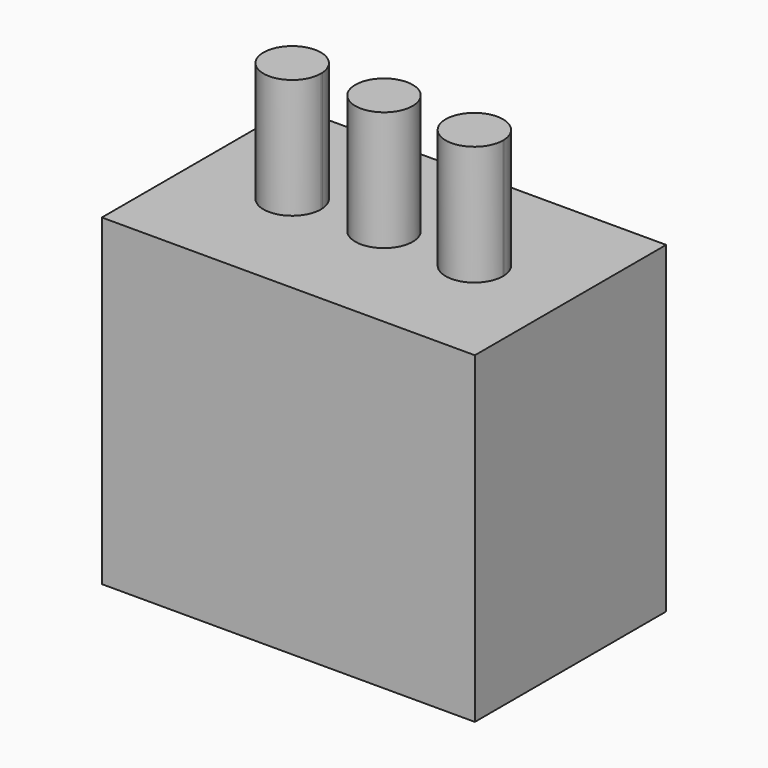
from build123d import *

# Parameters (mm, degrees)
F0_W     = 78
F0_H     = 50
F1_DEPTH = 7.5
F3_DEPTH = 25
F4_W     = 78
F4_H     = 50
F4_W_2   = 70.5
F4_H_2   = 42.5
F5_DEPTH = 60


with BuildPart() as f1:
    # F0 (on Top) → F1 (new body)
    with BuildSketch(Plane.XY):
        Rectangle(F0_W, F0_H)
    extrude(amount=F1_DEPTH)

    # F2 (on face) → F3 (join)
    with BuildSketch(Plane.XY.offset(7.5)):
        with BuildLine():
            Line((-24.8326521918, 0), (-12.8640334502, 0))
            ThreePointArc((-12.8640334502, 0), (-18.848342821, 5.5663626469), (-24.8326521918, 0))
        make_face()
        with BuildLine():
            ThreePointArc((-12.848342821, -0.4336373531), (-12.8522667614, -0.2166767865), (-12.8640334502, 0))
            Line((-12.8640334502, 0), (-24.8326521918, 0))
            ThreePointArc((-24.8326521918, 0), (-19.0653033876, -6.4297134127), (-12.848342821, -0.4336373531))
        make_face()
        with BuildLine():
            Line((-6, 0), (0, 0))
            Line((0, 0), (6, 0))
            ThreePointArc((6, 0), (0, 6), (-6, 0))
        make_face()
        with BuildLine():
            Line((6, 0), (0, 0))
            Line((0, 0), (-6, 0))
            ThreePointArc((-6, 0), (0, -6), (6, 0))
        make_face()
        with BuildLine():
            ThreePointArc((25.1258996345, 0), (19.1332791001, 5.7025119665), (13.1406585656, 0))
            Line((13.1406585656, 0), (25.1258996345, 0))
        make_face()
        with BuildLine():
            Line((25.1258996345, 0), (13.1406585656, 0))
            ThreePointArc((13.1406585656, 0), (18.9844893267, -6.2956428834), (25.1332791001, -0.2974880335))
            ThreePointArc((25.1332791001, -0.2974880335), (25.13143395, -0.1486982602), (25.1258996345, 0))
        make_face()
    extrude(amount=F3_DEPTH)

    # F4 (on face) → F5 (join)
    with BuildSketch(Plane(origin=(0, 0, 0), x_dir=(1, 0, 0), z_dir=(0, 0, -1))):
        Rectangle(F4_W, F4_H)
        Rectangle(F4_W_2, F4_H_2, mode=Mode.SUBTRACT)
    extrude(amount=F5_DEPTH)


solid = f1.part
